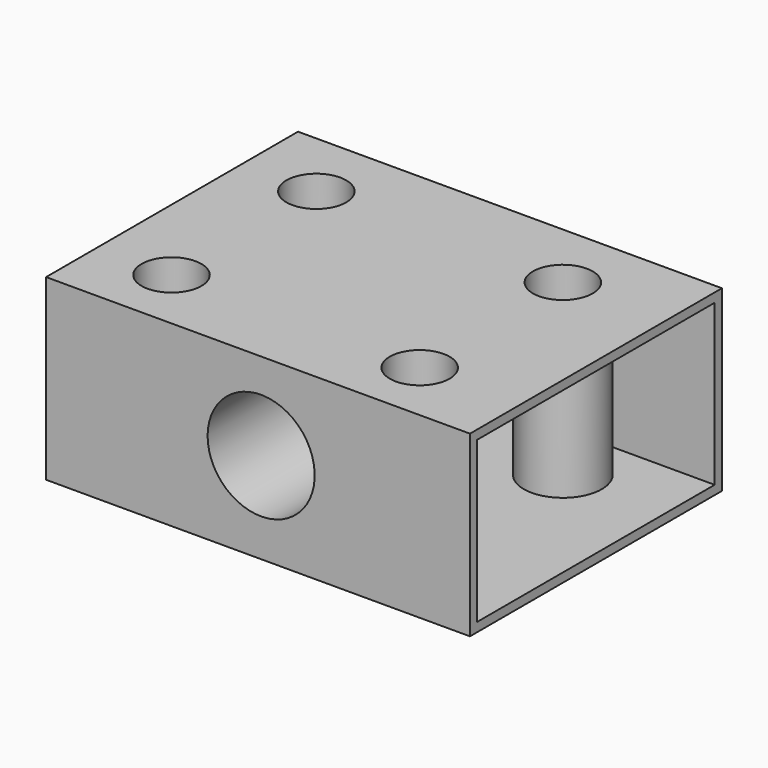
from build123d import *

# Parameters (mm, degrees)
F0_W     = 118.7662929296
F0_H     = 88.2422402501
F1_DEPTH = 50
F3_D     = 16.75
F5_D     = 30
F6_T     = -2.54


with BuildPart() as f1:
    # F0 (on Top) → F1 (new body)
    with BuildSketch(Plane.XY):
        with Locations((-3.1449049711, 3.6998838186)):
            Rectangle(F0_W, F0_H)
    extrude(amount=F1_DEPTH)

    # F3 (through all)
    with Locations(Plane.XY.offset(50)):
        with Locations((-41.7324155569, 28.2360911369), (27.3362733424, 28.2360911369), (28.1245876104, -22.8877589107), (-41.7324155569, -22.4902890623)):
            Hole(F3_D / 2)

    # F5 (through all)
    with Locations(Plane.XZ.offset(40.4212363064)):
        with Locations((-2.2715097293, 25.5605392158)):
            Hole(F5_D / 2)

    # F6
    f6_openings = [f1.faces().sort_by_distance(p)[0] for p in [
        (56.238241, 3.699884, 25),
        (-62.528051, 3.699884, 25),
    ]]
    offset(amount=F6_T, openings=f6_openings)


solid = f1.part
